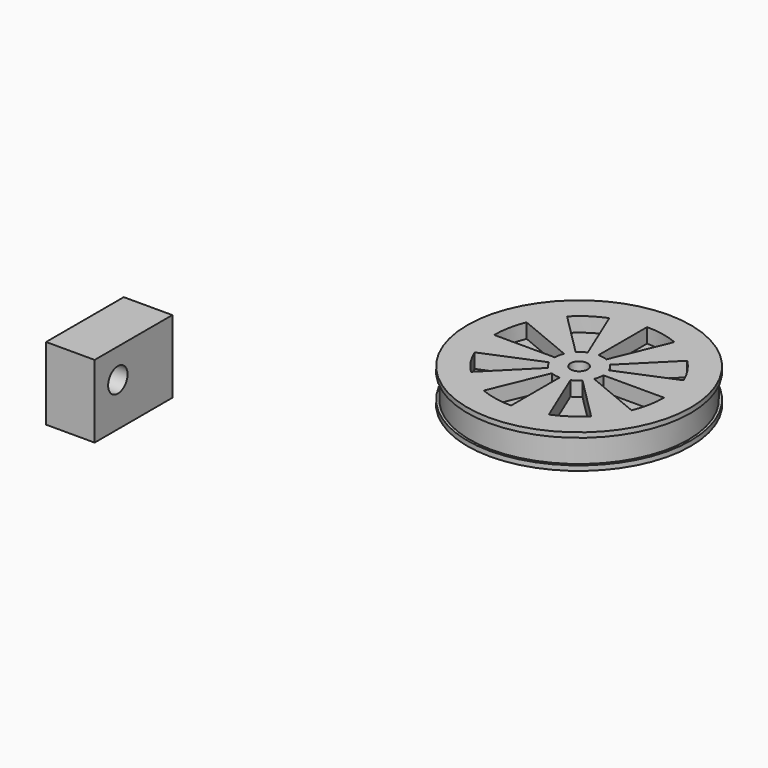
from build123d import *

# Parameters (mm, degrees)
F0_R      = 23
F1_DEPTH  = 1
F2_R      = 22.5
F3_DEPTH  = 5
F4_R      = 23
F4_R_2    = 22.5
F5_DEPTH  = 1
F6_R      = 1.75
F7_DEPTH  = 25
F9_DEPTH  = 3
F10_R     = 4
F10_R_2   = 1.75
F11_DEPTH = 4
F12_W     = 10
F12_H     = 20
F13_DEPTH = 15
F14_R     = 2.5
F15_DEPTH = 25


with BuildPart() as f1:
    # F0 (on Top) → F1 (new body)
    with BuildSketch(Plane.XY):
        Circle(F0_R)
    extrude(amount=F1_DEPTH)

    # F2 (on face) → F3 (join)
    with BuildSketch(Plane.XY.offset(1)):
        Circle(F2_R)
    extrude(amount=F3_DEPTH)

    # F4 (on face) → F5 (join)
    with BuildSketch(Plane.XY.offset(6)):
        Circle(F4_R)
        Circle(F4_R_2, mode=Mode.SUBTRACT)
        Circle(F4_R_2)
    extrude(amount=F5_DEPTH)

    # F6 (on face) → F7 (cut)
    with BuildSketch(Plane.XY.offset(7)):
        Circle(F6_R)
    extrude(amount=-F7_DEPTH, mode=Mode.SUBTRACT)

    # F8 (on face) → F9 (cut)
    with BuildSketch(Plane.XY.offset(7)):
        with BuildLine():
            ThreePointArc((0, 5), (0.9754516101, 4.903926402), (1.9134171618, 4.6193976626))
            Line((1.9134171618, 4.6193976626), (6.6969600664, 16.1678918189))
            ThreePointArc((6.6969600664, 16.1678918189), (3.4140806353, 17.1637424071), (0, 17.5))
            Line((0, 17.5), (0, 5))
        make_face()
        with BuildLine():
            ThreePointArc((3.5355339059, 3.5355339059), (4.1573480615, 2.7778511651), (4.6193976626, 1.9134171618))
            Line((4.6193976626, 1.9134171618), (16.1678918189, 6.6969600664))
            ThreePointArc((16.1678918189, 6.6969600664), (14.5507182153, 9.7224790778), (12.3743686708, 12.3743686708))
            Line((12.3743686708, 12.3743686708), (3.5355339059, 3.5355339059))
        make_face()
        with BuildLine():
            Line((17.5, 0), (5, 0))
            ThreePointArc((5, 0), (4.903926402, -0.9754516101), (4.6193976626, -1.9134171618))
            Line((4.6193976626, -1.9134171618), (16.1678918189, -6.6969600664))
            ThreePointArc((16.1678918189, -6.6969600664), (17.1637424071, -3.4140806353), (17.5, 0))
        make_face()
        with BuildLine():
            Line((12.3743686708, -12.3743686708), (3.5355339059, -3.5355339059))
            ThreePointArc((3.5355339059, -3.5355339059), (2.7778511651, -4.1573480615), (1.9134171618, -4.6193976626))
            Line((1.9134171618, -4.6193976626), (6.6969600664, -16.1678918189))
            ThreePointArc((6.6969600664, -16.1678918189), (9.7224790778, -14.5507182153), (12.3743686708, -12.3743686708))
        make_face()
        with BuildLine():
            Line((0, -17.5), (0, -5))
            ThreePointArc((0, -5), (-0.9754516101, -4.903926402), (-1.9134171618, -4.6193976626))
            Line((-1.9134171618, -4.6193976626), (-6.6969600664, -16.1678918189))
            ThreePointArc((-6.6969600664, -16.1678918189), (-3.4140806353, -17.1637424071), (0, -17.5))
        make_face()
        with BuildLine():
            ThreePointArc((-3.5355339059, -3.5355339059), (-4.1573480615, -2.7778511651), (-4.6193976626, -1.9134171618))
            Line((-4.6193976626, -1.9134171618), (-16.1678918189, -6.6969600664))
            ThreePointArc((-16.1678918189, -6.6969600664), (-14.5507182153, -9.7224790778), (-12.3743686708, -12.3743686708))
            Line((-12.3743686708, -12.3743686708), (-3.5355339059, -3.5355339059))
        make_face()
        with BuildLine():
            ThreePointArc((-5, 0), (-4.903926402, 0.9754516101), (-4.6193976626, 1.9134171618))
            Line((-4.6193976626, 1.9134171618), (-16.1678918189, 6.6969600664))
            ThreePointArc((-16.1678918189, 6.6969600664), (-17.1637424071, 3.4140806353), (-17.5, 0))
            Line((-17.5, 0), (-5, 0))
        make_face()
        with BuildLine():
            ThreePointArc((-3.5355339059, 3.5355339059), (-2.7778511651, 4.1573480615), (-1.9134171618, 4.6193976626))
            Line((-1.9134171618, 4.6193976626), (-6.6969600664, 16.1678918189))
            ThreePointArc((-6.6969600664, 16.1678918189), (-9.7224790778, 14.5507182153), (-12.3743686708, 12.3743686708))
            Line((-12.3743686708, 12.3743686708), (-3.5355339059, 3.5355339059))
        make_face()
    extrude(amount=-F9_DEPTH, mode=Mode.SUBTRACT)


with BuildPart() as f11:
    # F10 (on face) → F11 (new body)
    with BuildSketch(Plane(origin=(0, 0, 0), x_dir=(1, 0, 0), z_dir=(0, 0, -1))):
        Circle(F10_R)
        Circle(F10_R_2, mode=Mode.SUBTRACT)
    extrude(amount=F11_DEPTH)


with BuildPart() as f13:
    # F12 (on Top) → F13 (new body)
    with BuildSketch(Plane.XY):
        with Locations((-57.6293793321, -48.9252449572)):
            Rectangle(F12_W, F12_H)
    extrude(amount=F13_DEPTH)

    # F14 (on face) → F15 (cut)
    with BuildSketch(Plane.YZ.offset(-52.6293793321)):
        with Locations((-52.9523044825, 8.9537883177)):
            Circle(F14_R)
    extrude(amount=-F15_DEPTH, mode=Mode.SUBTRACT)


solid = Compound([f1.part, f11.part, f13.part])
